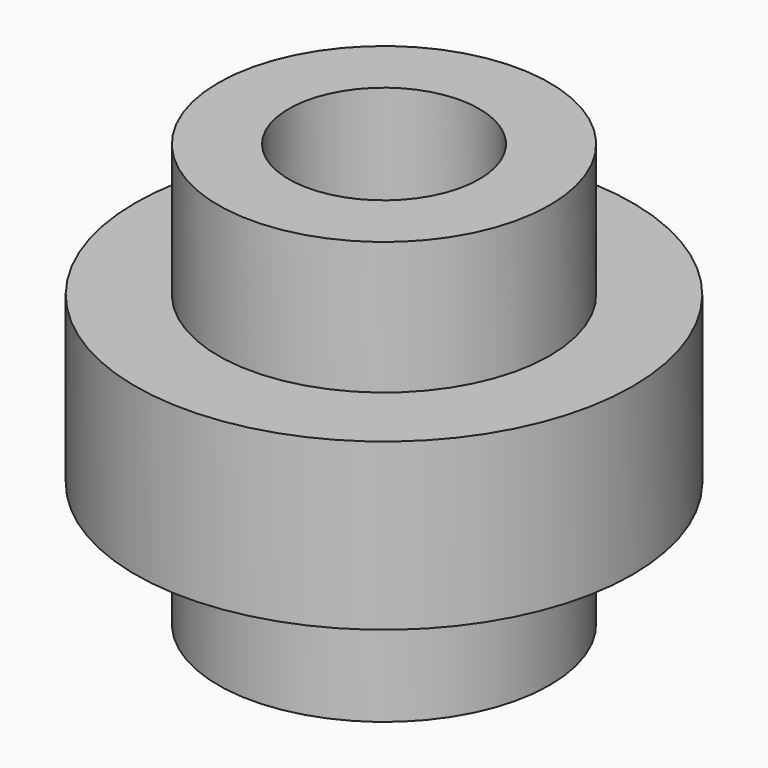
from build123d import *

# Parameters (mm, degrees)
F0_R      = 4
F1_DEPTH  = 3
F2_R      = 6
F3_DEPTH  = 4
F4_R      = 4
F5_DEPTH  = 3.2
F6_R      = 1.8
F7_DEPTH  = 10.201
F8_R      = 2.3
F9_DEPTH  = 3.2
F10_R     = 2.3
F11_DEPTH = 3.2


with BuildPart() as f1:
    # F0 (on Top) → F1 (new body)
    with BuildSketch(Plane.XY):
        Circle(F0_R)
    extrude(amount=F1_DEPTH)

    # F2 (on face) → F3 (join)
    with BuildSketch(Plane.XY.offset(3)):
        Circle(F2_R)
    extrude(amount=F3_DEPTH)

    # F4 (on face) → F5 (join)
    with BuildSketch(Plane.XY.offset(7)):
        Circle(F4_R)
    extrude(amount=F5_DEPTH)

    # F6 (on face) → F7 (cut, through all)
    with BuildSketch(Plane.XY.offset(10.2)):
        Circle(F6_R)
    extrude(amount=-F7_DEPTH, mode=Mode.SUBTRACT)

    # F8 (on face) → F9 (cut)
    with BuildSketch(Plane(origin=(0, 0, 0), x_dir=(1, 0, 0), z_dir=(0, 0, -1))):
        Circle(F8_R)
    extrude(amount=-F9_DEPTH, mode=Mode.SUBTRACT)

    # F10 (on face) → F11 (cut)
    with BuildSketch(Plane.XY.offset(10.2)):
        Circle(F10_R)
    extrude(amount=-F11_DEPTH, mode=Mode.SUBTRACT)


solid = f1.part
